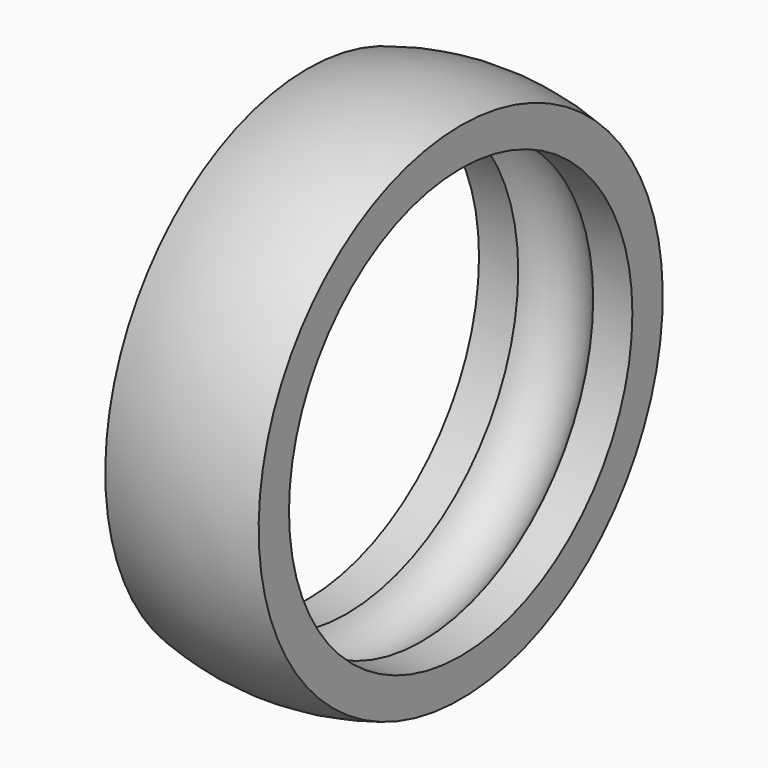
from build123d import *


with BuildPart() as f1:
    # F0 (on Front) → F1 (revolve)
    with BuildSketch(Plane.XZ):
        with BuildLine():
            Line((9.0043, 25.1968), (9.0043, 29.650948))
            ThreePointArc((9.0043, 29.650948), (0, 30.988), (-9.0043, 29.650948))
            Line((-9.0043, 29.650948), (-9.0043, 25.1968))
            Line((-9.0043, 25.1968), (-4.399409, 25.1968))
            ThreePointArc((-4.399409, 25.1968), (0, 27.7368), (4.399409, 25.1968))
            Line((4.399409, 25.1968), (9.0043, 25.1968))
        make_face()
    revolve(axis=Axis((-4.50215, 0, 0), (-1, 0, 0)))


solid = f1.part
